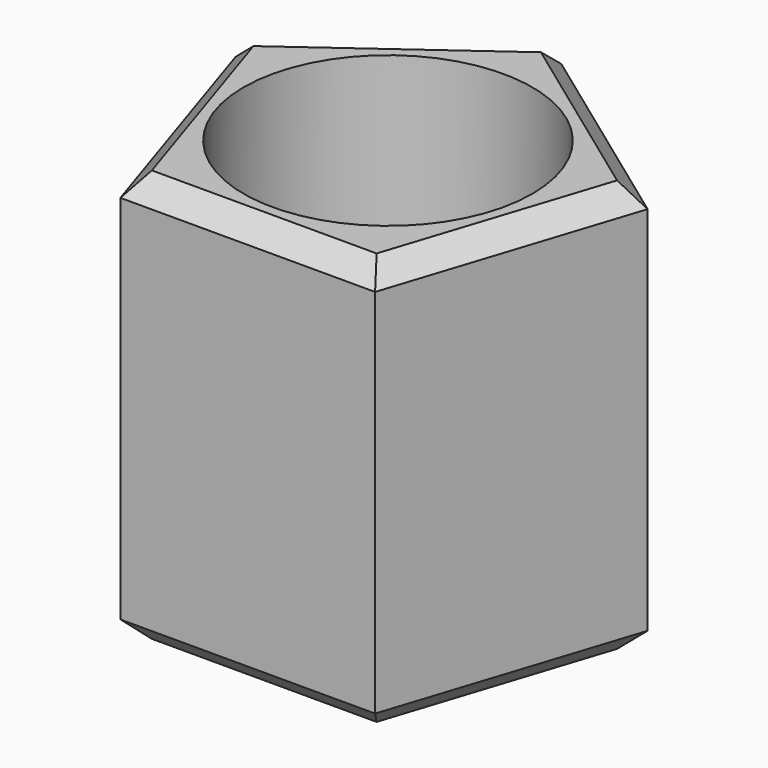
from build123d import *

# Parameters (mm, degrees)
F0_R     = 14
F1_DEPTH = 2
F2_DEPTH = 40
F3_SIZE  = 2


with BuildPart() as f1:
    # F0 (on Top) → F1 (new body)
    with BuildSketch(Plane.XY):
        Polygon((12.351223, -17), (19.984699, 6.493422), (0, 21.013156), (-19.984699, 6.493422), (-12.351223, -17), align=None)
        Circle(F0_R, mode=Mode.SUBTRACT)
        Circle(F0_R)
    extrude(amount=F1_DEPTH)

    # F0 (on Top) → F2 (join)
    with BuildSketch(Plane.XY):
        Polygon((12.351223, -17), (19.984699, 6.493422), (0, 21.013156), (-19.984699, 6.493422), (-12.351223, -17), align=None)
        Circle(F0_R, mode=Mode.SUBTRACT)
    extrude(amount=F2_DEPTH)

    # F3
    f3_edges = [f1.edges().sort_by_distance(p)[0] for p in [
        (16.167961, -5.253289, 40),
        (9.992349, 13.753289, 40),
        (-9.992349, 13.753289, 40),
        (-16.167961, -5.253289, 40),
        (0, -17, 40),
        (16.167961, -5.253289, 0),
        (9.992349, 13.753289, 0),
        (-16.167961, -5.253289, 0),
        (0, -17, 0),
        (-9.992349, 13.753289, 0),
    ]]
    chamfer(f3_edges, length=F3_SIZE)


solid = f1.part
